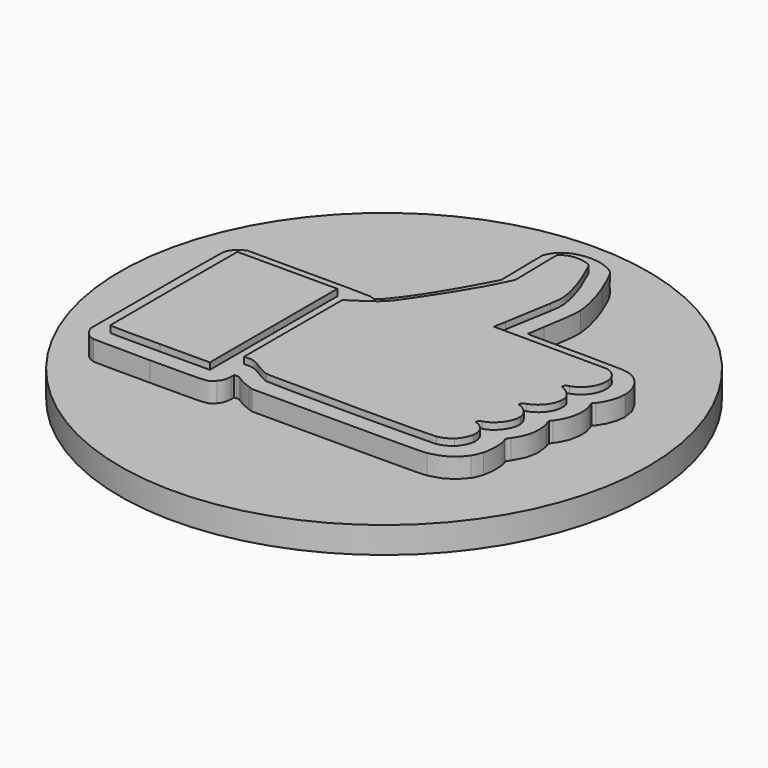
from build123d import *

# Parameters (mm, degrees)
EXTRUDE001_DEPTH = 2.5
EXTRUDE002_DEPTH = 3
EXTRUDE_DEPTH    = 3
CYLINDER_R       = 20
CYLINDER_DEPTH   = 2


with BuildPart() as extrude001:
    # Wire001 → Extrude001 (new body)
    with BuildSketch(Plane(origin=(15.001651, -13.255113, 0), x_dir=(0, -1, 0), z_dir=(0, 0, -1))):
        with BuildLine():
            add(Edge.make_bspline(
                [(13.204683, 13.980991), (13.12338, 14.384761), (12.904576, 14.66579), (12.523085, 14.856422)],
                knots=[0, 0, 0, 0, 1, 1, 1, 1], degree=3))
            add(Edge.make_bspline(
                [(12.523085, 14.856422), (12.232456, 15.001651)],
                knots=[0, 0, 1.151204, 1.151204], degree=1))
            add(Edge.make_bspline(
                [(12.232456, 15.001651), (6.011527, 15.001651)],
                knots=[0, 0, 22.04266, 22.04266], degree=1))
            add(Edge.make_bspline(
                [(6.011527, 15.001651), (-0.136202, 15.001651), (-0.212481, 15.000522), (-0.471163, 14.903714)],
                knots=[0, 0, 0, 0, 1, 1, 1, 1], degree=3))
            add(Edge.make_bspline(
                [(-0.471163, 14.903714), (-0.783924, 14.786694), (-1.055767, 14.534407), (-1.219444, 14.209258)],
                knots=[0, 0, 0, 0, 1, 1, 1, 1], degree=3))
            add(Edge.make_bspline(
                [(-1.219444, 14.209258), (-1.339259, 13.971241)],
                knots=[0, 0, 0.944197, 0.944197], degree=1))
            add(Edge.make_bspline(
                [(-1.339259, 13.971241), (-1.339259, 9.320876)],
                knots=[0, 0, 16.47767, 16.47767], degree=1))
            add(Edge.make_bspline(
                [(-1.339259, 9.320876), (-1.339259, 4.879121), (-1.335223, 4.661585), (-1.249532, 4.471522)],
                knots=[0, 0, 0, 0, 1, 1, 1, 1], degree=3))
            add(Edge.make_bspline(
                [(-1.249532, 4.471522), (-1.16035, 4.273743), (-1.160443, 4.271494), (-1.265054, 4.102243)],
                knots=[0, 0, 0, 0, 1, 1, 1, 1], degree=3))
            add(Edge.make_bspline(
                [(-1.265054, 4.102243), (-1.465567, 3.777806), (-3.170085, 2.521626), (-4.368601, 1.815015)],
                knots=[0, 0, 0, 0, 1, 1, 1, 1], degree=3))
            add(Edge.make_bspline(
                [(-4.368601, 1.815015), (-4.442182, 1.771637), (-4.697593, 1.618362), (-4.936184, 1.474404)],
                knots=[0, 0, 0, 0, 1, 1, 1, 1], degree=3))
            add(Edge.make_bspline(
                [(-4.936184, 1.474404), (-5.174775, 1.330448), (-5.476707, 1.15192), (-5.607148, 1.077675)],
                knots=[0, 0, 0, 0, 1, 1, 1, 1], degree=3))
            add(Edge.make_bspline(
                [(-5.607148, 1.077675), (-6.37184, 0.642427), (-6.998788, 0.300159), (-7.377942, 0.110949)],
                knots=[0, 0, 0, 0, 1, 1, 1, 1], degree=3))
            add(Edge.make_bspline(
                [(-7.377942, 0.110949), (-7.809277, -0.104297)],
                knots=[0, 0, 1.708079, 1.708079], degree=1))
            add(Edge.make_bspline(
                [(-7.809277, -0.104297), (-9.798207, -0.073196)],
                knots=[0, 0, 7.048252, 7.048252], degree=1))
            add(Edge.make_bspline(
                [(-9.798207, -0.073196), (-11.787134, -0.042095)],
                knots=[0, 0, 7.048242, 7.048242], degree=1))
            add(Edge.make_bspline(
                [(-11.787134, -0.042095), (-12.074691, -0.185574)],
                knots=[0, 0, 1.138691, 1.138691], degree=1))
            add(Edge.make_bspline(
                [(-12.074691, -0.185574), (-12.386744, -0.341276), (-12.533553, -0.46139), (-12.726875, -0.719154)],
                knots=[0, 0, 0, 0, 1, 1, 1, 1], degree=3))
            add(Edge.make_bspline(
                [(-12.726875, -0.719154), (-13.081335, -1.191775), (-13.25999, -1.79406), (-13.255012, -2.49963)],
                knots=[0, 0, 0, 0, 1, 1, 1, 1], degree=3))
            add(Edge.make_bspline(
                [(-13.255012, -2.49963), (-13.251004, -3.069431), (-13.161142, -3.478269), (-12.935378, -3.954022)],
                knots=[0, 0, 0, 0, 1, 1, 1, 1], degree=3))
            add(Edge.make_bspline(
                [(-12.935378, -3.954022), (-12.631715, -4.593933), (-12.563516, -4.63866), (-10.7088, -5.414322)],
                knots=[0, 0, 0, 0, 1, 1, 1, 1], degree=3))
            add(Edge.make_bspline(
                [(-10.7088, -5.414322), (-9.697821, -5.837122), (-8.454428, -6.16093), (-7.641535, -6.213104)],
                knots=[0, 0, 0, 0, 1, 1, 1, 1], degree=3))
            add(Edge.make_bspline(
                [(-7.641535, -6.213104), (-7.189624, -6.242111), (-6.55704, -6.164102), (-4.659708, -5.845391)],
                knots=[0, 0, 0, 0, 1, 1, 1, 1], degree=3))
            add(Edge.make_bspline(
                [(-4.659708, -5.845391), (-4.034535, -5.740379), (-3.479192, -5.654456), (-3.425612, -5.654456)],
                knots=[0, 0, 0, 0, 1, 1, 1, 1], degree=3))
            add(Edge.make_bspline(
                [(-3.425612, -5.654456), (-3.328545, -5.654456), (-3.328197, -5.667298), (-3.328197, -9.226964)],
                knots=[0, 0, 0, 0, 1, 1, 1, 1], degree=3))
            add(Edge.make_bspline(
                [(-3.328197, -9.226964), (-3.328197, -13.211067), (-3.323851, -13.274411), (-3.013353, -13.83313)],
                knots=[0, 0, 0, 0, 1, 1, 1, 1], degree=3))
            add(Edge.make_bspline(
                [(-3.013353, -13.83313), (-2.626457, -14.529296), (-1.776452, -14.993472), (-0.879654, -14.998321)],
                knots=[0, 0, 0, 0, 1, 1, 1, 1], degree=3))
            add(Edge.make_bspline(
                [(-0.879654, -14.998321), (-0.261825, -15.001651), (0.530379, -14.719798), (1.004619, -14.32791)],
                knots=[0, 0, 0, 0, 1, 1, 1, 1], degree=3))
            add(Edge.make_bspline(
                [(1.004619, -14.32791), (1.228374, -14.14301)],
                knots=[0, 0, 1.028501, 1.028501], degree=1))
            add(Edge.make_bspline(
                [(1.228374, -14.14301), (1.549401, -14.263843)],
                knots=[0, 0, 1.215409, 1.215409], degree=1))
            add(Edge.make_bspline(
                [(1.549401, -14.263843), (2.413981, -14.589271), (3.524356, -14.386593), (4.372662, -13.748514)],
                knots=[0, 0, 0, 0, 1, 1, 1, 1], degree=3))
            add(Edge.make_bspline(
                [(4.372662, -13.748514), (4.573099, -13.597748)],
                knots=[0, 0, 0.888695, 0.888695], degree=1))
            add(Edge.make_bspline(
                [(4.573099, -13.597748), (5.019665, -13.724093)],
                knots=[0, 0, 1.644431, 1.644431], degree=1))
            add(Edge.make_bspline(
                [(5.019665, -13.724093), (5.936106, -13.983382), (6.80896, -13.810735), (7.670821, -13.19971)],
                knots=[0, 0, 0, 0, 1, 1, 1, 1], degree=3))
            add(Edge.make_bspline(
                [(7.670821, -13.19971), (7.943236, -13.00658), (7.965174, -12.999406), (8.087452, -13.063481)],
                knots=[0, 0, 0, 0, 1, 1, 1, 1], degree=3))
            add(Edge.make_bspline(
                [(8.087452, -13.063481), (8.444409, -13.250538), (9.636011, -13.266636), (10.139013, -13.091196)],
                knots=[0, 0, 0, 0, 1, 1, 1, 1], degree=3))
            add(Edge.make_bspline(
                [(10.139013, -13.091196), (10.656953, -12.910545), (10.740251, -12.873766), (10.905828, -12.752611)],
                knots=[0, 0, 0, 0, 1, 1, 1, 1], degree=3))
            add(Edge.make_bspline(
                [(10.905828, -12.752611), (11.712715, -12.162199), (12.019206, -11.662798), (12.271134, -10.527955)],
                knots=[0, 0, 0, 0, 1, 1, 1, 1], degree=3))
            add(Edge.make_bspline(
                [(12.271134, -10.527955), (12.333835, -10.245504), (12.343606, -9.333768), (12.343606, -3.766799)],
                knots=[0, 0, 0, 0, 1, 1, 1, 1], degree=3))
            add(Edge.make_bspline(
                [(12.343606, -3.766799), (12.343606, 2.667879)],
                knots=[0, 0, 22.80004, 22.80004], degree=1))
            add(Edge.make_bspline(
                [(12.343606, 2.667879), (12.230632, 2.999773)],
                knots=[0, 0, 1.242262, 1.242262], degree=1))
            add(Edge.make_bspline(
                [(12.230632, 2.999773), (12.104298, 3.370917), (11.882212, 3.82954), (11.695816, 4.104213)],
                knots=[0, 0, 0, 0, 1, 1, 1, 1], degree=3))
            add(Edge.make_bspline(
                [(11.695816, 4.104213), (11.609156, 4.231907), (11.576472, 4.335979), (11.58648, 4.452342)],
                knots=[0, 0, 0, 0, 1, 1, 1, 1], degree=3))
            add(Edge.make_bspline(
                [(11.58648, 4.452342), (11.60076, 4.618323)],
                knots=[0, 0, 0.590293, 0.590293], degree=1))
            add(Edge.make_bspline(
                [(11.60076, 4.618323), (11.901748, 4.632518)],
                knots=[0, 0, 1.067676, 1.067676], degree=1))
            add(Edge.make_bspline(
                [(11.901748, 4.632518), (12.353295, 4.653826), (12.549814, 4.724749), (12.813054, 4.961423)],
                knots=[0, 0, 0, 0, 1, 1, 1, 1], degree=3))
            add(Edge.make_bspline(
                [(12.813054, 4.961423), (13.25999, 5.36326), (13.229214, 5.021164), (13.237745, 9.681861)],
                knots=[0, 0, 0, 0, 1, 1, 1, 1], degree=3))
            add(Edge.make_bspline(
                [(13.237745, 9.681861), (13.241866, 11.935583), (13.226993, 13.870191), (13.20468, 13.980989)],
                knots=[0, 0, 0, 0, 1, 1, 1, 1], degree=3))
            add(Edge.make_bspline(
                [(13.20468, 13.980989), (13.204683, 13.980991)],
                knots=[0, 0, 1.4e-05, 1.4e-05], degree=1))
        make_face()
    extrude(amount=-EXTRUDE001_DEPTH)


with BuildPart() as extrude002:
    # Wire003 → Extrude002 (new body)
    with BuildSketch(Plane(origin=(5.04664, -19.211611, 0), x_dir=(0, 1, 0), z_dir=(0, 0, 1))):
        with BuildLine():
            add(Edge.make_bspline(
                [(0.011002, -3.795707), (6.04968, -3.795707)],
                knots=[0, 0, 21.39689, 21.39689], degree=1))
            add(Edge.make_bspline(
                [(6.04968, -3.795707), (6.04968, -0.009552)],
                knots=[0, 0, 13.41551, 13.41551], degree=1))
            add(Edge.make_bspline(
                [(6.04968, -0.009552), (6.04968, 3.776601)],
                knots=[0, 0, 13.4155, 13.4155], degree=1))
            add(Edge.make_bspline(
                [(6.04968, 3.776601), (0.058929, 3.788934)],
                knots=[0, 0, 21.227115, 21.227115], degree=1))
            add(Edge.make_bspline(
                [(0.058929, 3.788934), (-3.235984, 3.795707), (-5.958909, 3.790909), (-5.99202, 3.77835)],
                knots=[0, 0, 0, 0, 1, 1, 1, 1], degree=3))
            add(Edge.make_bspline(
                [(-5.99202, 3.77835), (-6.039774, 3.760175), (-6.04968, 2.974962), (-6.039947, -0.020135)],
                knots=[0, 0, 0, 0, 1, 1, 1, 1], degree=3))
            add(Edge.make_bspline(
                [(-6.039947, -0.020135), (-6.02767, -3.795698)],
                knots=[0, 0, 13.378051, 13.378051], degree=1))
            add(Edge.make_bspline(
                [(-6.02767, -3.795698), (0.011005, -3.795698)],
                knots=[0, 0, 21.39688, 21.39688], degree=1))
            add(Edge.make_bspline(
                [(0.011005, -3.795698), (0.011002, -3.795707)],
                knots=[0, 0, 3.2e-05, 3.2e-05], degree=1))
        make_face()
    extrude(amount=EXTRUDE002_DEPTH)


with BuildPart() as fusion:
    # Wire → Extrude (new body)
    with BuildSketch(Plane(origin=(19.36755, -12.779843, 0), x_dir=(0, 1, 0), z_dir=(0, 0, 1))):
        with BuildLine():
            add(Edge.make_bspline(
                [(-11.503786, -5.895733), (-11.423697, -6.273578), (-11.262046, -6.605917), (-11.024352, -6.881389)],
                knots=[0, 0, 0, 0, 1, 1, 1, 1], degree=3))
            add(Edge.make_bspline(
                [(-11.024352, -6.881389), (-10.824556, -7.112938), (-10.289313, -7.401262), (-9.970512, -7.44907)],
                knots=[0, 0, 0, 0, 1, 1, 1, 1], degree=3))
            add(Edge.make_bspline(
                [(-9.970512, -7.44907), (-9.696669, -7.490137), (-9.312418, -7.405834), (-9.0926, -7.256462)],
                knots=[0, 0, 0, 0, 1, 1, 1, 1], degree=3))
            add(Edge.make_bspline(
                [(-9.0926, -7.256462), (-8.898731, -7.124724), (-8.649325, -6.784564), (-8.649325, -6.651886)],
                knots=[0, 0, 0, 0, 1, 1, 1, 1], degree=3))
            add(Edge.make_bspline(
                [(-8.649325, -6.651886), (-8.649325, -6.539818), (-8.604627, -6.516004), (-8.449811, -6.545601)],
                knots=[0, 0, 0, 0, 1, 1, 1, 1], degree=3))
            add(Edge.make_bspline(
                [(-8.449811, -6.545601), (-8.348671, -6.564933), (-8.316097, -6.605271), (-8.290217, -6.743221)],
                knots=[0, 0, 0, 0, 1, 1, 1, 1], degree=3))
            add(Edge.make_bspline(
                [(-8.290217, -6.743221), (-8.147037, -7.506421), (-7.170884, -8.251736), (-6.414898, -8.175062)],
                knots=[0, 0, 0, 0, 1, 1, 1, 1], degree=3))
            add(Edge.make_bspline(
                [(-6.414898, -8.175062), (-5.908665, -8.12372), (-5.491902, -7.768628), (-5.297341, -7.222875)],
                knots=[0, 0, 0, 0, 1, 1, 1, 1], degree=3))
            add(Edge.make_bspline(
                [(-5.297341, -7.222875), (-5.257483, -7.111078), (-5.234298, -7.099135), (-5.117289, -7.130125)],
                knots=[0, 0, 0, 0, 1, 1, 1, 1], degree=3))
            add(Edge.make_bspline(
                [(-5.117289, -7.130125), (-5.00896, -7.158822), (-4.967745, -7.212675), (-4.904191, -7.408574)],
                knots=[0, 0, 0, 0, 1, 1, 1, 1], degree=3))
            add(Edge.make_bspline(
                [(-4.904191, -7.408574), (-4.659905, -8.161557), (-3.991041, -8.70757), (-3.25765, -8.752697)],
                knots=[0, 0, 0, 0, 1, 1, 1, 1], degree=3))
            add(Edge.make_bspline(
                [(-3.25765, -8.752697), (-2.864057, -8.776912), (-2.688004, -8.71591), (-2.375319, -8.446946)],
                knots=[0, 0, 0, 0, 1, 1, 1, 1], degree=3))
            add(Edge.make_bspline(
                [(-2.375319, -8.446946), (-2.237058, -8.328021), (-2.116056, -8.159503), (-2.025471, -7.959715)],
                knots=[0, 0, 0, 0, 1, 1, 1, 1], degree=3))
            add(Edge.make_bspline(
                [(-2.025471, -7.959715), (-1.923035, -7.733799), (-1.867872, -7.661626), (-1.813561, -7.682468)],
                knots=[0, 0, 0, 0, 1, 1, 1, 1], degree=3))
            add(Edge.make_bspline(
                [(-1.813561, -7.682468), (-1.773181, -7.697962), (-1.712969, -7.710634), (-1.67976, -7.710634)],
                knots=[0, 0, 0, 0, 1, 1, 1, 1], degree=3))
            add(Edge.make_bspline(
                [(-1.67976, -7.710634), (-1.646548, -7.710634), (-1.579667, -7.841785), (-1.531133, -8.002085)],
                knots=[0, 0, 0, 0, 1, 1, 1, 1], degree=3))
            add(Edge.make_bspline(
                [(-1.531133, -8.002085), (-1.278499, -8.836472), (-0.404462, -9.413718), (0.468194, -9.322507)],
                knots=[0, 0, 0, 0, 1, 1, 1, 1], degree=3))
            add(Edge.make_bspline(
                [(0.468194, -9.322507), (0.937346, -9.273471), (1.238167, -9.062843), (1.46977, -8.621227)],
                knots=[0, 0, 0, 0, 1, 1, 1, 1], degree=3))
            add(Edge.make_bspline(
                [(1.46977, -8.621227), (1.582879, -8.405561)],
                knots=[0, 0, 0.862891, 0.862891], degree=1))
            add(Edge.make_bspline(
                [(1.582879, -8.405561), (1.596087, -4.074982)],
                knots=[0, 0, 15.344641, 15.344641], degree=1))
            add(Edge.make_bspline(
                [(1.596087, -4.074982), (1.609295, 0.255596)],
                knots=[0, 0, 15.344641, 15.344641], degree=1))
            add(Edge.make_bspline(
                [(1.609295, 0.255596), (1.835713, 0.223155)],
                knots=[0, 0, 0.810463, 0.810463], degree=1))
            add(Edge.make_bspline(
                [(1.835713, 0.223155), (1.960241, 0.205319), (2.267014, 0.147875), (2.517427, 0.095523)],
                knots=[0, 0, 0, 0, 1, 1, 1, 1], degree=3))
            add(Edge.make_bspline(
                [(2.517427, 0.095523), (2.950852, 0.004907), (4.268068, -0.217577), (6.034726, -0.498563)],
                knots=[0, 0, 0, 0, 1, 1, 1, 1], degree=3))
            add(Edge.make_bspline(
                [(6.034726, -0.498563), (6.948479, -0.643897), (7.161315, -0.638145), (7.980989, -0.445963)],
                knots=[0, 0, 0, 0, 1, 1, 1, 1], degree=3))
            add(Edge.make_bspline(
                [(7.980989, -0.445963), (8.918218, -0.226222), (9.68255, 0.055013), (11.027988, 0.675179)],
                knots=[0, 0, 0, 0, 1, 1, 1, 1], degree=3))
            add(Edge.make_bspline(
                [(11.027988, 0.675179), (11.316247, 0.808049), (11.320398, 0.81281), (11.432079, 1.138314)],
                knots=[0, 0, 0, 0, 1, 1, 1, 1], degree=3))
            add(Edge.make_bspline(
                [(11.432079, 1.138314), (11.651939, 1.779128), (11.549659, 2.57701), (11.200598, 2.944026)],
                knots=[0, 0, 0, 0, 1, 1, 1, 1], degree=3))
            add(Edge.make_bspline(
                [(11.200598, 2.944026), (11.072297, 3.078928)],
                knots=[0, 0, 0.659662, 0.659662], degree=1))
            add(Edge.make_bspline(
                [(11.072297, 3.078928), (9.083327, 3.044943)],
                knots=[0, 0, 7.048559, 7.048559], degree=1))
            add(Edge.make_bspline(
                [(9.083327, 3.044943), (7.09436, 3.01096)],
                knots=[0, 0, 7.048549, 7.048549], degree=1))
            add(Edge.make_bspline(
                [(7.09436, 3.01096), (6.569215, 3.258859)],
                knots=[0, 0, 2.057654, 2.057654], degree=1))
            add(Edge.make_bspline(
                [(6.569215, 3.258859), (5.404244, 3.808797), (3.811314, 4.753152), (1.992299, 5.972242)],
                knots=[0, 0, 0, 0, 1, 1, 1, 1], degree=3))
            add(Edge.make_bspline(
                [(1.992299, 5.972242), (0.11823, 7.22823), (0.051806, 7.291648), (-0.881353, 8.716004)],
                knots=[0, 0, 0, 0, 1, 1, 1, 1], degree=3))
            add(Edge.make_bspline(
                [(-0.881353, 8.716004), (-1.328783, 9.39895)],
                knots=[0, 0, 2.892974, 2.892974], degree=1))
            add(Edge.make_bspline(
                [(-1.328783, 9.39895), (-5.971541, 9.39895)],
                knots=[0, 0, 16.45072, 16.45072], degree=1))
            add(Edge.make_bspline(
                [(-5.971541, 9.39895), (-10.6143, 9.39895)],
                knots=[0, 0, 16.45072, 16.45072], degree=1))
            add(Edge.make_bspline(
                [(-10.6143, 9.39895), (-10.6143, 9.119011)],
                knots=[0, 0, 0.99191, 0.99191], degree=1))
            add(Edge.make_bspline(
                [(-10.6143, 9.119011), (-10.6143, 8.745761), (-10.706082, 8.461227), (-10.952177, 8.071566)],
                knots=[0, 0, 0, 0, 1, 1, 1, 1], degree=3))
            add(Edge.make_bspline(
                [(-10.952177, 8.071566), (-11.275663, 7.559361), (-11.44413, 7.235099), (-11.507528, 7.002649)],
                knots=[0, 0, 0, 0, 1, 1, 1, 1], degree=3))
            add(Edge.make_bspline(
                [(-11.507528, 7.002649), (-11.600097, 6.663249), (-11.596586, -5.457945), (-11.503803, -5.895725)],
                knots=[0, 0, 0, 0, 1, 1, 1, 1], degree=3))
            add(Edge.make_bspline(
                [(-11.503803, -5.895725), (-11.503786, -5.895733)],
                knots=[0, 0, 6.7e-05, 6.7e-05], degree=1))
        make_face()
    extrude(amount=EXTRUDE_DEPTH)

    # Fusion: union Extrude001, Extrude002
    add(extrude001.part)
    add(extrude002.part)


with BuildPart() as fusion_1:
    # Fusion placement: moved
    add(fusion.part.moved(Location((-15.020662, 16.459793, 1))))


with BuildPart() as cilindro:
    # Cylinder → Cylinder (new body)
    with BuildSketch(Plane.XY):
        Circle(CYLINDER_R)
    extrude(amount=CYLINDER_DEPTH)


solid = Compound([fusion_1.part, cilindro.part])
